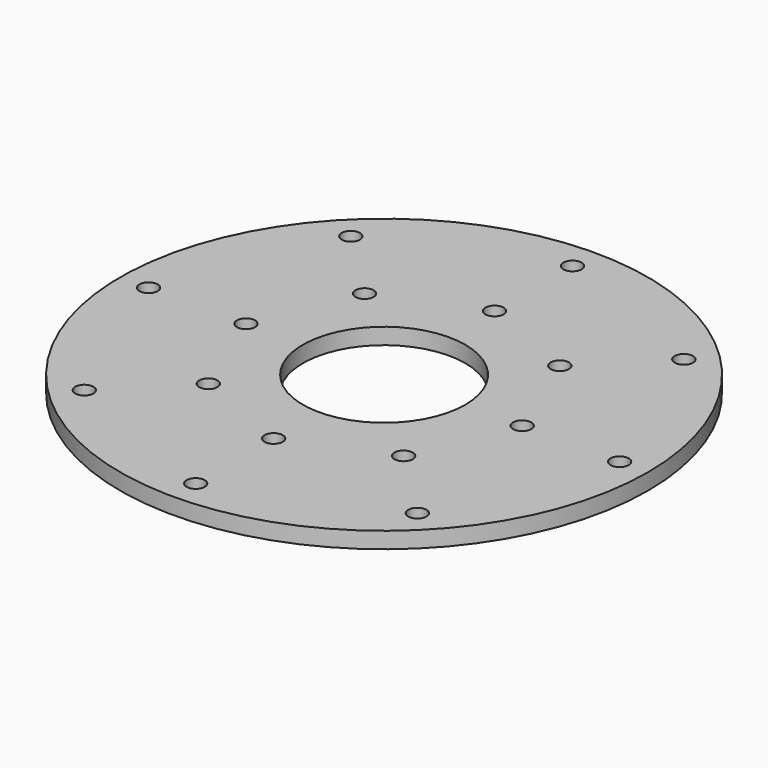
from build123d import *

# Parameters (mm, degrees)
SKETCH_R      = 65
SKETCH_R_2    = 20
SKETCH_R_3    = 2.25
EXTRUDE_DEPTH = 4


with BuildPart() as part:
    # Sketch → Extrude (new body)
    with BuildSketch(Plane.XY):
        Circle(SKETCH_R)
        Circle(SKETCH_R_2, mode=Mode.SUBTRACT)
        with Locations((-24.041631, 24.041631)):
            Circle(SKETCH_R_3, mode=Mode.SUBTRACT)
        with Locations((0, 34)):
            Circle(SKETCH_R_3, mode=Mode.SUBTRACT)
        with Locations((34, 0)):
            Circle(SKETCH_R_3, mode=Mode.SUBTRACT)
        with Locations((0, -34)):
            Circle(SKETCH_R_3, mode=Mode.SUBTRACT)
        with Locations((-24.041631, -24.041631)):
            Circle(SKETCH_R_3, mode=Mode.SUBTRACT)
        with Locations((-34, 0)):
            Circle(SKETCH_R_3, mode=Mode.SUBTRACT)
        with Locations((24.041631, -24.041631)):
            Circle(SKETCH_R_3, mode=Mode.SUBTRACT)
        with Locations((24.041631, 24.041631)):
            Circle(SKETCH_R_3, mode=Mode.SUBTRACT)
        with Locations((41.012193, 41.012193)):
            Circle(SKETCH_R_3, mode=Mode.SUBTRACT)
        with Locations((-58, 0)):
            Circle(SKETCH_R_3, mode=Mode.SUBTRACT)
        with Locations((0, -58)):
            Circle(SKETCH_R_3, mode=Mode.SUBTRACT)
        with Locations((-41.012193, -41.012193)):
            Circle(SKETCH_R_3, mode=Mode.SUBTRACT)
        with Locations((-41.012193, 41.012193)):
            Circle(SKETCH_R_3, mode=Mode.SUBTRACT)
        with Locations((41.012193, -41.012193)):
            Circle(SKETCH_R_3, mode=Mode.SUBTRACT)
        with Locations((0, 58)):
            Circle(SKETCH_R_3, mode=Mode.SUBTRACT)
        with Locations((58, 0)):
            Circle(SKETCH_R_3, mode=Mode.SUBTRACT)
    extrude(amount=EXTRUDE_DEPTH)


solid = part.part
